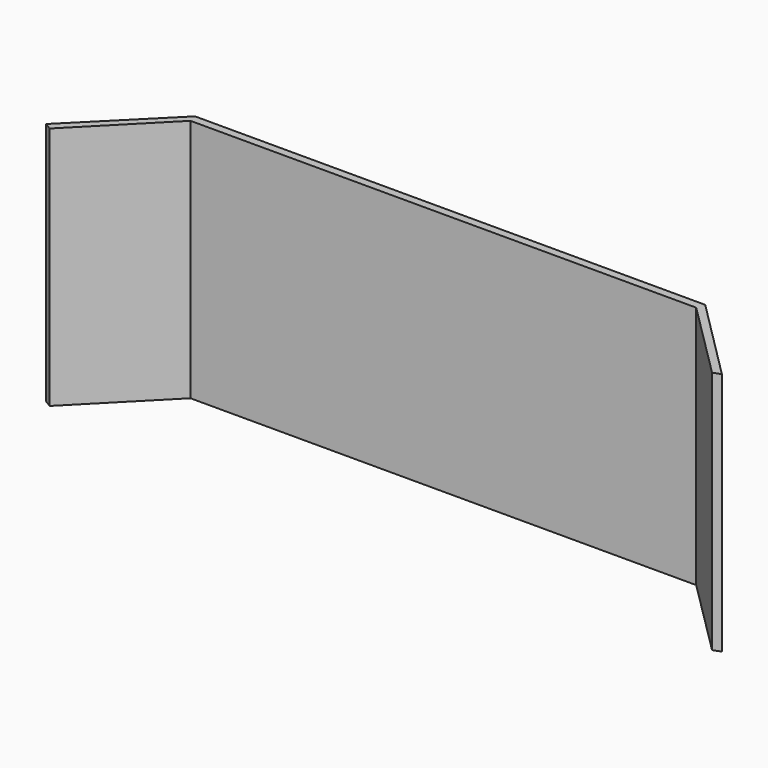
from build123d import *

# Parameters (mm, degrees)
F2_DEPTH = 150


with BuildPart() as f2:
    # F1 (on Top) → F2 (new body)
    with BuildSketch(Plane.XY):
        Polygon((-120.458648, 50), (-126.5485, 50), (-177.374676, -0.826176), (-173.100738, -3.421066), (-125.385739, 45), align=None)
        Polygon((180.203707, 50), (-120.458648, 50), (-125.385739, 45), (185.218194, 45), align=None)
        Polygon((186.7515, 50), (180.203707, 50), (185.218194, 45), (233.313381, -2.956232), (238.019883, -1.268383), align=None)
    extrude(amount=F2_DEPTH)


solid = f2.part
